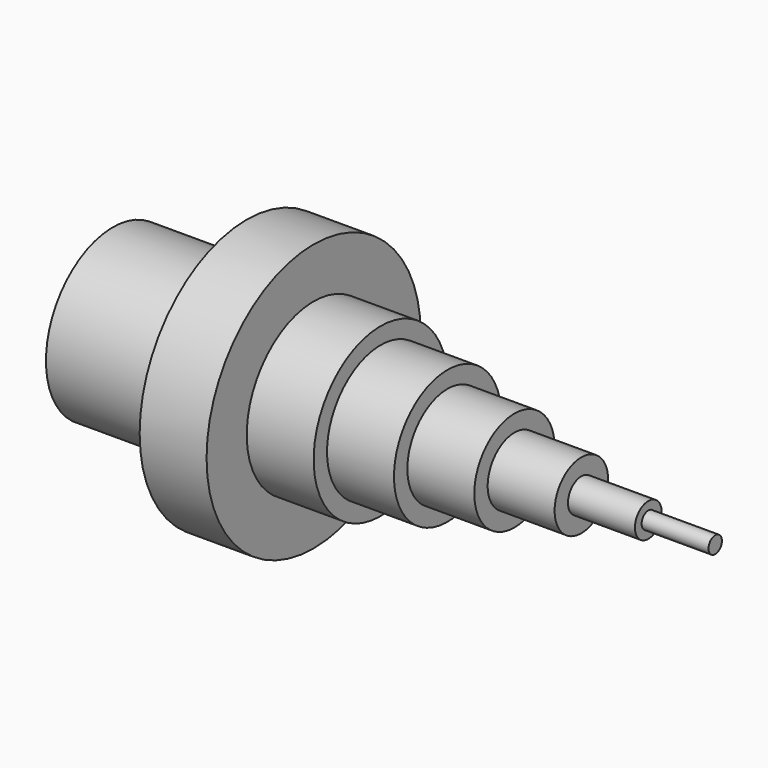
from build123d import *

# Parameters (mm, degrees)
F0_R     = 2.5
F1_DEPTH = 140
F0_R_2   = 5
F2_DEPTH = 120
F0_R_3   = 10
F3_DEPTH = 100
F0_R_4   = 15
F4_DEPTH = 80
F0_R_5   = 20
F5_DEPTH = 60
F0_R_6   = 25
F6_DEPTH = 40
F0_R_7   = 40
F7_DEPTH = 20
F8_DEPTH = 40


with BuildPart() as f1:
    # F0 (on Right) → F1 (new body)
    with BuildSketch(Plane.YZ):
        Circle(F0_R)
    extrude(amount=F1_DEPTH)

    # F0 (on Right) → F2 (join)
    with BuildSketch(Plane.YZ):
        Circle(F0_R_2)
        Circle(F0_R, mode=Mode.SUBTRACT)
    extrude(amount=F2_DEPTH)

    # F0 (on Right) → F3 (join)
    with BuildSketch(Plane.YZ):
        Circle(F0_R_3)
        Circle(F0_R_2, mode=Mode.SUBTRACT)
    extrude(amount=F3_DEPTH)

    # F0 (on Right) → F4 (join)
    with BuildSketch(Plane.YZ):
        Circle(F0_R_4)
        Circle(F0_R_3, mode=Mode.SUBTRACT)
    extrude(amount=F4_DEPTH)

    # F0 (on Right) → F5 (join)
    with BuildSketch(Plane.YZ):
        Circle(F0_R_5)
        Circle(F0_R_4, mode=Mode.SUBTRACT)
    extrude(amount=F5_DEPTH)

    # F0 (on Right) → F6 (join)
    with BuildSketch(Plane.YZ):
        Circle(F0_R_6)
        Circle(F0_R_5, mode=Mode.SUBTRACT)
    extrude(amount=F6_DEPTH)

    # F0 (on Right) → F7 (join)
    with BuildSketch(Plane.YZ):
        Circle(F0_R_7)
        Circle(F0_R_6, mode=Mode.SUBTRACT)
    extrude(amount=F7_DEPTH)

    # F0 (on Right) → F8 (join)
    with BuildSketch(Plane.YZ):
        Circle(F0_R_6)
        Circle(F0_R_5, mode=Mode.SUBTRACT)
    extrude(amount=-F8_DEPTH)


solid = f1.part
